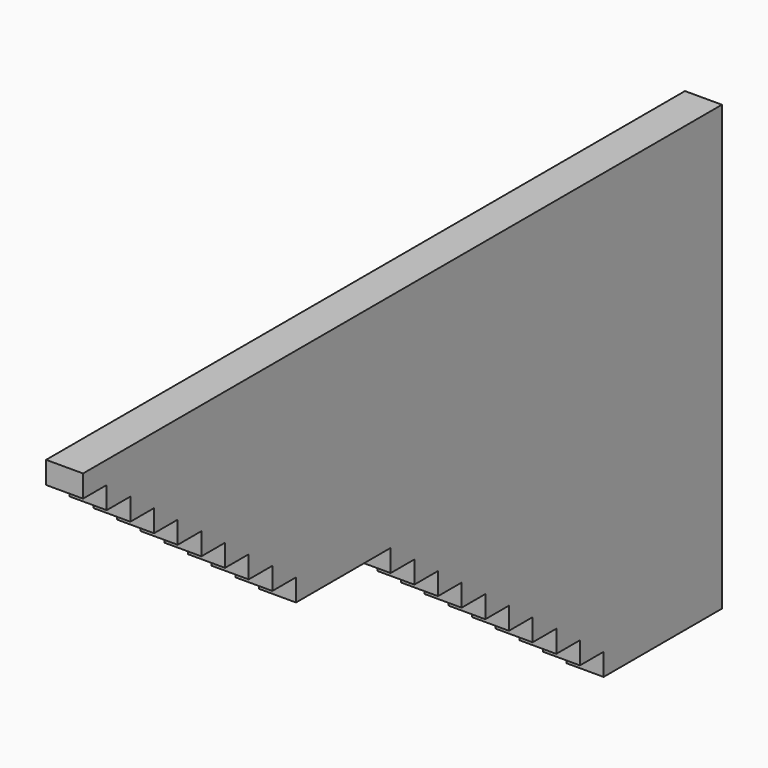
from build123d import *

# Parameters (mm, degrees)
F0_W     = 5400
F0_H     = 3000
F1_DEPTH = 250
F3_DEPTH = 250


with BuildPart() as f1:
    # F0 (on Right) → F1 (new body)
    with BuildSketch(Plane.YZ):
        with Locations((2633.846265, 1451.760955)):
            Rectangle(F0_W, F0_H)
    extrude(amount=F1_DEPTH)

    # F2 (on face) → F3 (cut)
    with BuildSketch(Plane.YZ.offset(250)):
        Polygon((-66.153735, -48.239045), (4333.846265, -48.239045), (4333.846265, 101.760955), (4133.846265, 101.760955), (4133.846265, 251.760955), (3933.846265, 251.760955), (3933.846265, 401.760955), (3733.846265, 401.760955), (3733.846265, 551.760955), (3533.846265, 551.760955), (3533.846265, 701.760955), (3333.846265, 701.760955), (3333.846265, 851.760955), (3133.846265, 851.760955), (3133.846265, 1001.760955), (2933.846265, 1001.760955), (2933.846265, 1151.760955), (2733.846265, 1151.760955), (2733.846265, 1301.760955), (2533.846265, 1301.760955), (2533.846265, 1451.760955), (1733.846265, 1451.760955), (1733.846265, 1601.760955), (1533.846265, 1601.760955), (1533.846265, 1751.760955), (1333.846265, 1751.760955), (1333.846265, 1901.760955), (1133.846265, 1901.760955), (1133.846265, 2051.760955), (933.846265, 2051.760955), (933.846265, 2201.760955), (733.846265, 2201.760955), (733.846265, 2351.760955), (533.846265, 2351.760955), (533.846265, 2501.760955), (333.846265, 2501.760955), (333.846265, 2651.760955), (133.846265, 2651.760955), (133.846265, 2801.760955), (-66.153735, 2801.760955), align=None)
    extrude(amount=-F3_DEPTH, mode=Mode.SUBTRACT)


solid = f1.part
